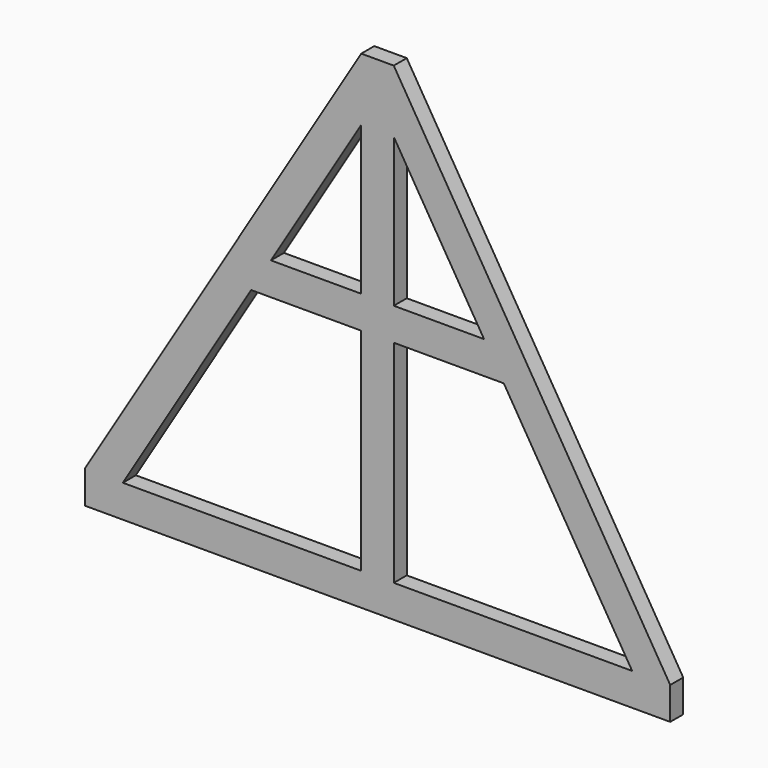
from build123d import *

# Parameters (mm, degrees)
F0_W     = 101.6
F0_H     = 1524
F1_DEPTH = 50.8
F3_DEPTH = 50.8
F5_DEPTH = 50.8


with BuildPart() as f1:
    # F0 (on Front) → F1 (new body)
    with BuildSketch(Plane.XZ):
        with Locations((50.8, 762)):
            Rectangle(F0_W, F0_H)
    extrude(amount=F1_DEPTH)

    # F2 (on Front) → F3 (join)
    with BuildSketch(Plane.XZ):
        Polygon((0, 1524), (-863.6, 101.6), (-744.7400515441, 101.6), (0, 1328.2306731315), align=None)
        Polygon((-863.6, 0), (0, 0), (0, 101.6), (-744.7400515441, 101.6), (-863.6, 101.6), align=None)
        Polygon((101.6, 101.6), (101.6, 0), (965.2, 0), (965.2, 101.6), (846.3400515441, 101.6), align=None)
        Polygon((846.3400515441, 101.6), (965.2, 101.6), (101.6, 1524), (101.6, 1328.2306731315), align=None)
    extrude(amount=F3_DEPTH)

    # F4 (on Front) → F5 (join)
    with BuildSketch(Plane.XZ):
        Polygon((-343.782908687, 762), (0, 762), (0, 863.6), (-282.0971944012, 863.6), align=None)
        Polygon((383.6971944012, 863.6), (101.6, 863.6), (101.6, 762), (445.382908687, 762), align=None)
    extrude(amount=F5_DEPTH)


solid = f1.part
